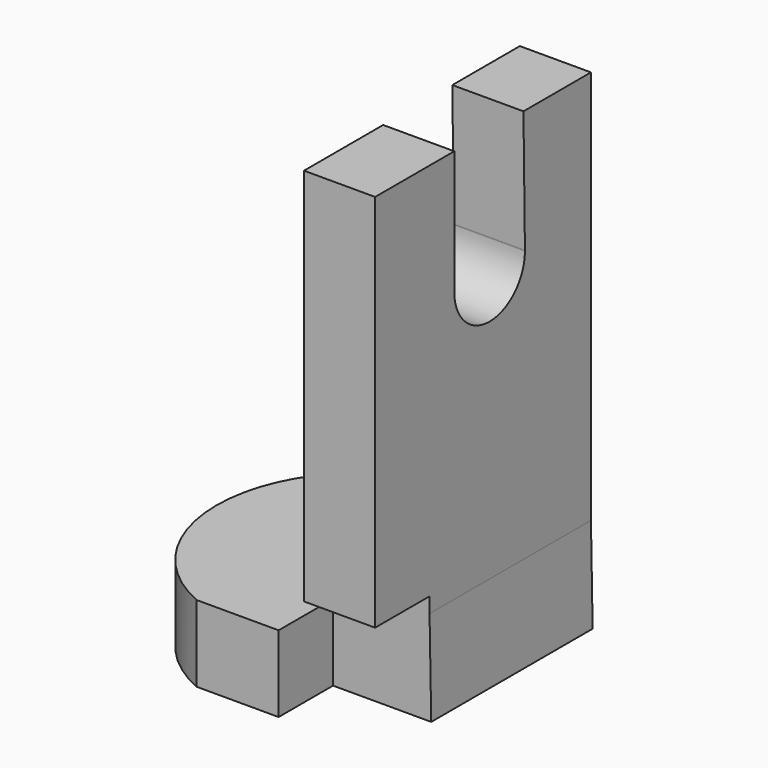
from build123d import *

# Parameters (mm, degrees)
F1_DEPTH      = 15.494
F1_DEPTH_BACK = 13.716
F3_DEPTH      = 25.4
F5_DEPTH      = 25.4
F7_DEPTH      = 7.366


with BuildPart() as f1:
    # F0 (on Front) → F1 (new body, two sides)
    with BuildSketch(Plane.XZ) as f1_sk:
        Polygon((10.631341, -17.505052), (10.44804, -7.240309), (10.44804, 35.468351), (2.74667, 35.468351), (2.74667, -9.236218), (-20.529484, -9.236218), (-20.529484, -17.505052), align=None)
    extrude(amount=F1_DEPTH)
    extrude(f1_sk.sketch, amount=-F1_DEPTH_BACK)

    # F2 (on face) → F3 (cut)
    with BuildSketch(Plane.YZ.offset(10.44804)):
        with BuildLine():
            ThreePointArc((4.782288, 22.142286), (-0.035854, 26.85327), (-4.782825, 22.070579))
            ThreePointArc((-4.782825, 22.070579), (0, 17.287754), (4.782825, 22.070579))
            ThreePointArc((4.782825, 22.070579), (4.782691, 22.106434), (4.782288, 22.142286))
        make_face()
        with BuildLine():
            Line((-4.782825, 35.468351), (-4.782825, 22.070579))
            ThreePointArc((-4.782825, 22.070579), (-0.035854, 26.85327), (4.782288, 22.142286))
            Line((4.782288, 22.142286), (4.582474, 35.468351))
            Line((4.582474, 35.468351), (-4.782825, 35.468351))
        make_face()
    extrude(amount=-F3_DEPTH, mode=Mode.SUBTRACT)

    # F4 (on face) → F5 (cut)
    with BuildSketch(Plane.XY.offset(-9.236218)):
        with BuildLine():
            ThreePointArc((-8.891407, -15.494), (-18.403713, -0.889), (-8.891407, 13.716))
            Line((-8.891407, 13.716), (-20.529484, 13.716))
            Line((-20.529484, 13.716), (-20.529484, -15.494))
            Line((-20.529484, -15.494), (-8.891407, -15.494))
        make_face()
    extrude(amount=-F5_DEPTH, mode=Mode.SUBTRACT)

    # F6 (on face) → F7 (cut)
    with BuildSketch(Plane.XZ.offset(15.494)):
        Polygon((10.44804, -5.590619), (2.74667, -5.590619), (2.74667, -9.236218), (0, -9.236218), (0, -17.505052), (10.631341, -17.505052), (10.44804, -7.240309), align=None)
    extrude(amount=-F7_DEPTH, mode=Mode.SUBTRACT)


solid = f1.part
